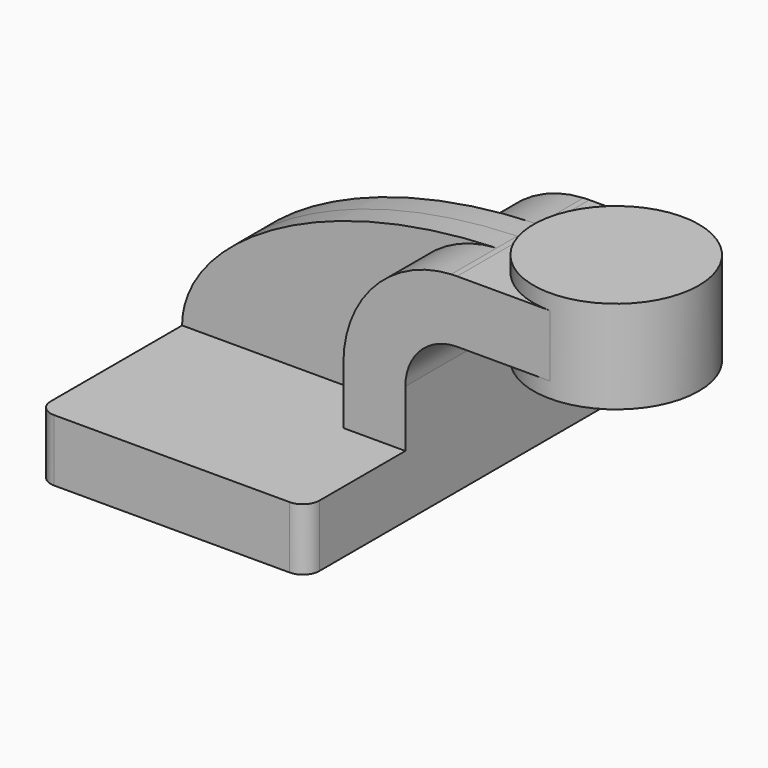
from build123d import *

# Parameters (mm, degrees)
F1_DEPTH = 63.5
F2_DEPTH = 25.4
F3_DEPTH = 7.9375
F0_W     = 25.4
F0_H     = 19.05
F4_DEPTH = 25.4
F6_R     = 5.08


with BuildPart() as f1:
    # F0 (on Front) → F1 (new body, symmetric)
    with BuildSketch(Plane.XZ):
        Polygon((41.275, -9.525), (41.275, 9.525), (22.225, 9.525), (-41.275, 9.525), (-41.275, -9.525), align=None)
    extrude(amount=F1_DEPTH, both=True)

    # F0 (on Front) → F2 (join, symmetric)
    with BuildSketch(Plane.XZ):
        with BuildLine():
            Line((22.225, 9.525), (41.275, 9.525))
            Line((41.275, 9.525), (41.275, 27.0002))
            ThreePointArc((41.275, 27.0002), (45.9246798487, 38.2255201513), (57.15, 42.8752))
            Line((57.15, 42.8752), (60.325, 42.8752))
            Line((60.325, 42.8752), (60.325, 61.9252))
            Line((60.325, 61.9252), (57.15, 61.9252))
            add(Edge.make_bspline(
                [(57.15, 61.9252), (56.5503475501, 61.9126523089), (55.9524428549, 61.8972779075), (55.3563152561, 61.8791093872)],
                knots=[0, 0, 0, 0, 1.1699731983, 1.1699731983, 1.1699731983, 1.1699731983], degree=3))
            ThreePointArc((55.3563152561, 61.8791093872), (31.8280721046, 51.053382589), (22.225, 27.0002))
            Line((22.225, 27.0002), (22.225, 9.525))
        make_face()
    extrude(amount=F2_DEPTH, both=True)

    # F0 (on Front) → F3 (join, symmetric)
    with BuildSketch(Plane.XZ):
        with BuildLine():
            Line((-41.275, 9.525), (22.225, 9.525))
            Line((22.225, 9.525), (22.225, 27.0002))
            ThreePointArc((22.225, 27.0002), (31.8280721046, 51.053382589), (55.3563152561, 61.8791093872))
            add(Edge.make_bspline(
                [(55.3563152561, 61.8791093872), (-0.8616204875, 60.1657233418), (-41.275, 33.602918895), (-41.275, 9.525)],
                knots=[1.1699731983, 1.1699731983, 1.1699731983, 1.1699731983, 111.5045361635, 111.5045361635, 111.5045361635, 111.5045361635], degree=3))
        make_face()
    extrude(amount=F3_DEPTH, both=True)

    # F0 (on Front) → F4 (join, symmetric)
    with BuildSketch(Plane.XZ):
        with Locations((73.025, 52.4002)):
            Rectangle(F0_W, F0_H)
    extrude(amount=F4_DEPTH, both=True)

    # F0 (on Front) → F5 (revolve)
    with BuildSketch(Plane.XZ):
        Polygon((85.725, 61.9252), (85.725, 42.8752), (85.725, 38.1), (111.125, 38.1), (111.125, 66.675), (85.725, 66.675), align=None)
    revolve(axis=Axis((85.725, 0, 52.3875), (0, 0, 1)))

    # F6
    f6_edges = [f1.edges().sort_by_distance(p)[0] for p in [
        (41.275, -63.5, 0),
        (-41.275, -63.5, 0),
        (41.275, 63.5, 0),
        (-41.275, 63.5, 0),
    ]]
    fillet(f6_edges, radius=F6_R)


solid = f1.part
